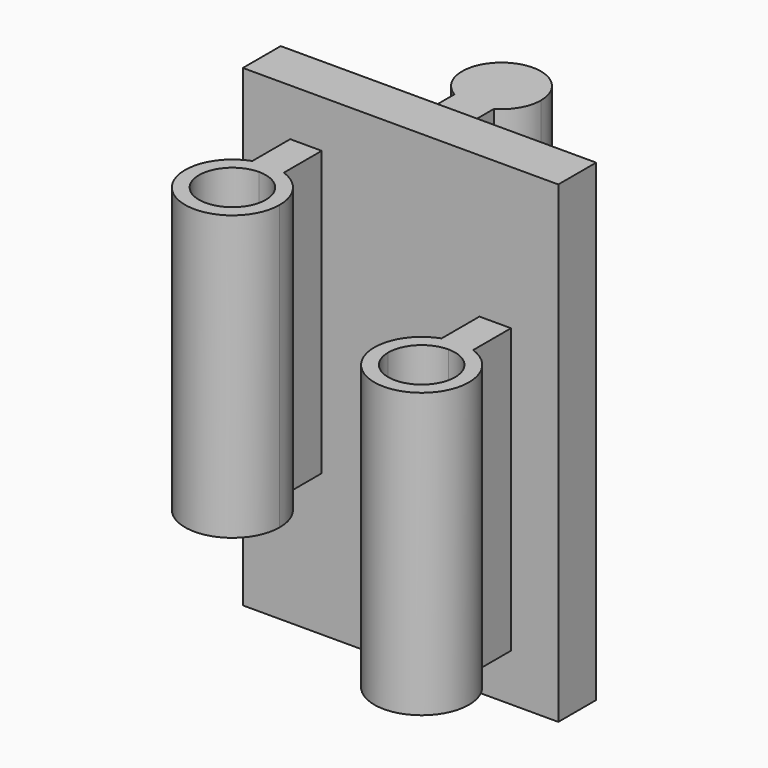
from build123d import *

# Parameters (mm, degrees)
F0_W          = 127
F0_H          = 190.5
F1_DEPTH      = 9.525
F3_DEPTH      = 76.2
F3_DEPTH_BACK = 38.1
F4_DEPTH      = 38.1
F4_DEPTH_BACK = 76.2
F6_DEPTH      = 88.9


with BuildPart() as f1:
    # F0 (on Front) → F1 (new body, symmetric)
    with BuildSketch(Plane.XZ):
        Rectangle(F0_W, F0_H)
    extrude(amount=F1_DEPTH, both=True)

    # F2 (on Top) → F3 (join, two sides)
    with BuildSketch(Plane.XY) as f3_sk:
        with BuildLine():
            Line((-38.1, -9.525), (-44.45, -9.525))
            Line((-44.45, -9.525), (-44.45, -28.575))
            ThreePointArc((-44.45, -28.575), (-49.0985226281, -62.0897721088), (-19.05, -46.5355122421))
            Line((-19.05, -46.5355122421), (-24.638, -46.5355122421))
            ThreePointArc((-24.638, -46.5355122421), (-47.6190714883, -56.0545837305), (-38.1, -33.0735122421))
            Line((-38.1, -33.0735122421), (-38.1, -9.525))
        make_face()
        with BuildLine():
            Line((-31.75, -9.525), (-38.1, -9.525))
            Line((-38.1, -9.525), (-38.1, -33.0735122421))
            ThreePointArc((-38.1, -33.0735122421), (-28.5809285117, -37.0164407538), (-24.638, -46.5355122421))
            Line((-24.638, -46.5355122421), (-19.05, -46.5355122421))
            ThreePointArc((-19.05, -46.5355122421), (-22.5457401333, -35.5369896141), (-31.75, -28.575))
            Line((-31.75, -28.575), (-31.75, -9.525))
        make_face()
    extrude(amount=F3_DEPTH)
    extrude(f3_sk.sketch, amount=-F3_DEPTH_BACK)

    # F2 (on Top) → F4 (join, two sides)
    with BuildSketch(Plane.XY) as f4_sk:
        with BuildLine():
            Line((24.638, -46.5355122421), (19.05, -46.5355122421))
            ThreePointArc((19.05, -46.5355122421), (49.0985226281, -62.0897721088), (44.45, -28.575))
            Line((44.45, -28.575), (44.45, -9.525))
            Line((44.45, -9.525), (38.1, -9.525))
            Line((38.1, -9.525), (38.1, -33.0735122421))
            ThreePointArc((38.1, -33.0735122421), (47.6190714883, -37.0164407538), (51.562, -46.5355122421))
            ThreePointArc((51.562, -46.5355122421), (38.1, -59.9975122421), (24.638, -46.5355122421))
        make_face()
        with BuildLine():
            ThreePointArc((31.75, -28.575), (22.5457401333, -35.5369896141), (19.05, -46.5355122421))
            Line((19.05, -46.5355122421), (24.638, -46.5355122421))
            ThreePointArc((24.638, -46.5355122421), (28.5809285117, -37.0164407538), (38.1, -33.0735122421))
            Line((38.1, -33.0735122421), (38.1, -9.525))
            Line((38.1, -9.525), (31.75, -9.525))
            Line((31.75, -9.525), (31.75, -28.575))
        make_face()
    extrude(amount=F4_DEPTH)
    extrude(f4_sk.sketch, amount=-F4_DEPTH_BACK)

    # F5 (on Top) → F6 (join, symmetric)
    with BuildSketch(Plane.XY):
        with BuildLine():
            Line((-7.9375, 27.5268467149), (-7.9375, 9.525))
            Line((-7.9375, 9.525), (0, 9.525))
            Line((0, 9.525), (7.9375, 9.525))
            Line((7.9375, 9.525), (7.9375, 27.5268467149))
            ThreePointArc((7.9375, 27.5268467149), (0, 25.4), (-7.9375, 27.5268467149))
        make_face()
        with BuildLine():
            ThreePointArc((15.875, 41.275), (-7.9375, 55.0231532851), (-7.9375, 27.5268467149))
            ThreePointArc((-7.9375, 27.5268467149), (0, 25.4), (7.9375, 27.5268467149))
            ThreePointArc((7.9375, 27.5268467149), (13.7481532851, 33.3375), (15.875, 41.275))
        make_face()
    extrude(amount=F6_DEPTH, both=True)


solid = f1.part
